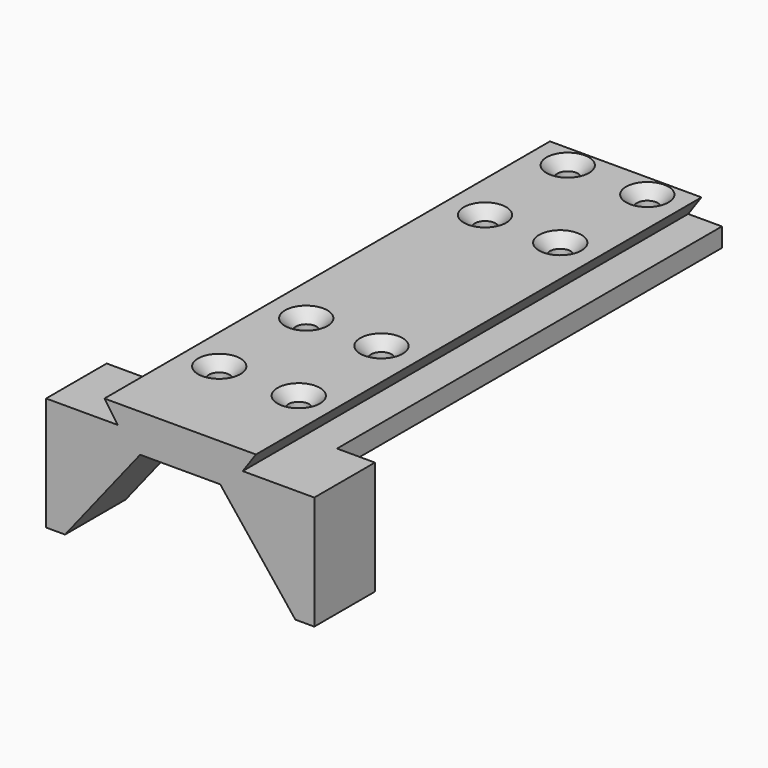
from build123d import *

# Parameters (mm, degrees)
F1_DEPTH       = 63.5
F1_DEPTH_BACK  = 63.5
F4_DEPTH       = 3
F6_D           = 5.5
F6_CSINK_D     = 11.2
F6_CSINK_ANGLE = 90
F8_DEPTH       = 20
F9_DEPTH       = 20


with BuildPart() as f1:
    # F0 (on Front) → F1 (new body, two sides)
    with BuildSketch(Plane.XZ) as f1_sk:
        Polygon((-25.4, 5), (-25.4, 0), (25.4, 0), (25.4, 5), (16.498962309, 5), (20, 10), (-20, 10), (-16.498962309, 5), align=None)
    extrude(amount=F1_DEPTH)
    extrude(f1_sk.sketch, amount=-F1_DEPTH_BACK)

    # F3 (on face) → F4 (cut)
    with BuildSketch(Plane(origin=(0, 0, 0), x_dir=(1, 0, 0), z_dir=(0, 0, -1))):
        with BuildLine():
            Line((2, 22.5), (-2, 22.5))
            ThreePointArc((-2, 22.5), (-4.1213203436, 21.6213203436), (-5, 19.5))
            Line((-5, 19.5), (-5, -19.5))
            ThreePointArc((-5, -19.5), (-4.1213203436, -21.6213203436), (-2, -22.5))
            Line((-2, -22.5), (2, -22.5))
            ThreePointArc((2, -22.5), (4.1213203436, -21.6213203436), (5, -19.5))
            Line((5, -19.5), (5, 19.5))
            ThreePointArc((5, 19.5), (4.1213203436, 21.6213203436), (2, 22.5))
        make_face()
    extrude(amount=-F4_DEPTH, mode=Mode.SUBTRACT)

    # F6 (through all)
    with Locations(Plane.XY.offset(10)):
        with Locations((-10.5, 57.5), (10.5, 57.5), (-9.928368032, 29.5), (9.928368032, 29.5), (-9.928368032, -29.5), (9.928368032, -29.5), (-10.5, -57.5), (10.5, -57.5)):
            CounterSinkHole(F6_D / 2, F6_CSINK_D / 2, counter_sink_angle=F6_CSINK_ANGLE)

    # F7 (on face) → F8 (join)
    with BuildSketch(Plane.XZ.offset(63.5)):
        Polygon((35.4, 5), (25.4, 5), (0, 5), (0, 0), (10.570820421, 0), (30.4, -25), (35.4, -25), align=None)
        Polygon((0, 0), (0, 5), (-25.4, 5), (-35.4, 5), (-35.4, -25), (-30.4, -25), (-10.570820421, 0), align=None)
    extrude(amount=F8_DEPTH)

    # F9 (add): a face of the model
    f9_faces = [f1.faces().sort_by_distance(p)[0] for p in [
        (0, -63.5, 7.5799346399),
    ]]
    extrude(f9_faces, amount=F9_DEPTH)


solid = f1.part
